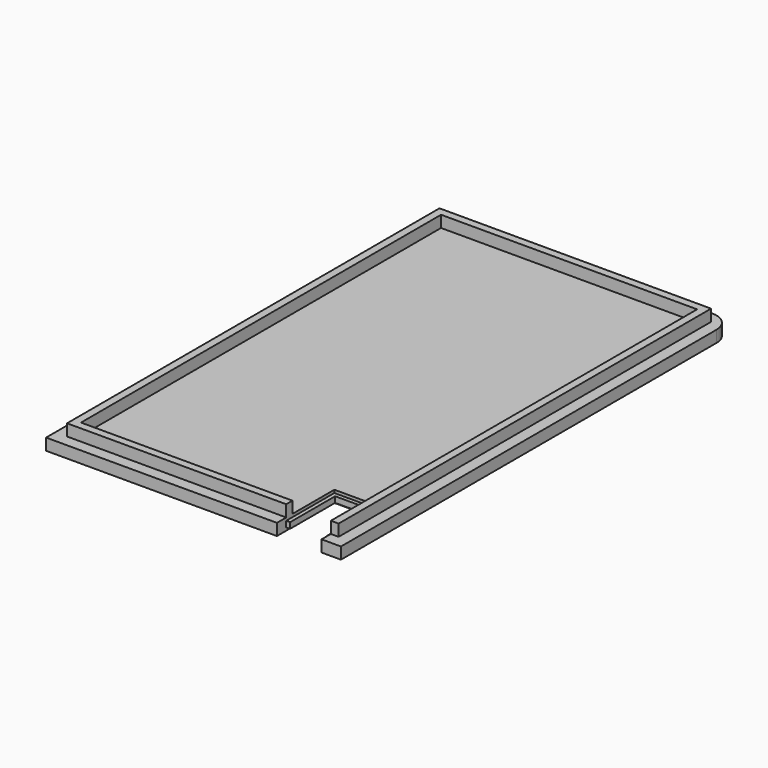
from build123d import *

# Parameters (mm, degrees)
F0_W      = 70
F0_H      = 120
F0_W_2    = 66
F0_H_2    = 116
F1_DEPTH  = 6
F0_W_3    = 76
F0_H_3    = 126
F2_DEPTH  = 3
F3_R      = 5
F4_W      = 11.5
F4_H      = 13.5
F5_DEPTH  = 25
F8_W      = 13.5
F8_H      = 1.5
F9_DEPTH  = 1
F6_W      = 11.5
F6_H      = 1.5
F10_DEPTH = 1
F7_W      = 13.5
F7_H      = 1.5
F11_DEPTH = 1
F13_DEPTH = 25
F14_W     = 1
F14_H     = 1.5
F15_W     = 1
F15_H     = 1.5
F16_DEPTH = 3


with BuildPart() as f1:
    # F0 (on Top) → F1 (new body)
    with BuildSketch(Plane.XY):
        Rectangle(F0_W, F0_H)
        Rectangle(F0_W_2, F0_H_2, mode=Mode.SUBTRACT)
    extrude(amount=F1_DEPTH)

    # F0 (on Top) → F2 (join)
    with BuildSketch(Plane.XY):
        Rectangle(F0_W_3, F0_H_3)
        Rectangle(F0_W, F0_H, mode=Mode.SUBTRACT)
        Rectangle(F0_W_2, F0_H_2)
    extrude(amount=F2_DEPTH)

    # F3
    f3_edges = [f1.edges().sort_by_distance(p)[0] for p in [
        (-38, 63, 1.5),
        (38, 63, 1.5),
    ]]
    fillet(f3_edges, radius=F3_R)

    # F4 (on face) → F5 (cut)
    with BuildSketch(Plane.XY.offset(3)):
        with Locations((27.25, -51.25)):
            Rectangle(F4_W, F4_H)
    extrude(amount=-F5_DEPTH, mode=Mode.SUBTRACT)

    # F8 (on face) → F9 (join)
    with BuildSketch(Plane(origin=(33, 0, 0), x_dir=(0, -1, 0), z_dir=(-1, 0, 0))):
        with Locations((51.25, 1.5)):
            Rectangle(F8_W, F8_H)
    extrude(amount=F9_DEPTH)

    # F6 (on face) → F10 (join)
    with BuildSketch(Plane.XZ.offset(44.5)):
        with Locations((27.25, 1.5)):
            Rectangle(F6_W, F6_H)
    extrude(amount=F10_DEPTH)

    # F7 (on face) → F11 (join)
    with BuildSketch(Plane.YZ.offset(21.5)):
        with Locations((-51.25, 1.5)):
            Rectangle(F7_W, F7_H)
    extrude(amount=F11_DEPTH)

    # F12 (on face) → F13 (cut)
    with BuildSketch(Plane(origin=(0, -58, 0), x_dir=(-1, 0, 0), z_dir=(0, 1, 0))):
        Polygon((-21.5, 2.25), (-21.5, 3), (-21.5, 6), (-33, 6), (-33, 2.25), (-32, 2.25), (-32, 0.75), (-33, 0.75), (-33, 0), (-21.5, 0), (-21.5, 0.75), (-22.5, 0.75), (-22.5, 2.25), align=None)
    extrude(amount=-F13_DEPTH, mode=Mode.SUBTRACT)

    # F14 (on face) + F15 (on face) → F16 (cut)
    with BuildSketch(Plane.XZ.offset(63)):
        with Locations((22, 1.5)):
            Rectangle(F14_W, F14_H)
    with BuildSketch(Plane.XZ.offset(63)):
        with Locations((32.5, 1.5)):
            Rectangle(F15_W, F15_H)
    extrude(amount=-F16_DEPTH, mode=Mode.SUBTRACT)


solid = f1.part
